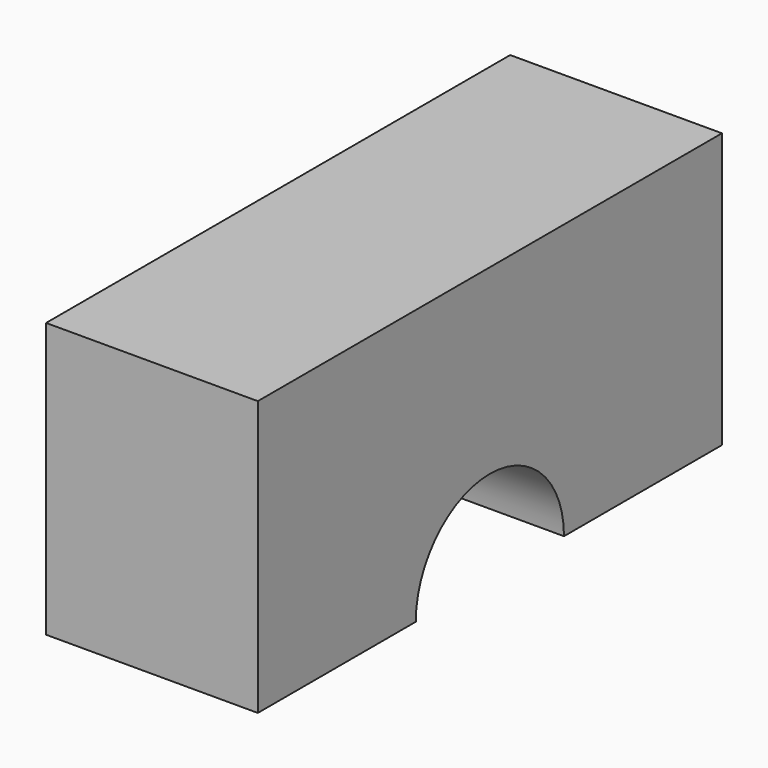
from build123d import *

# Parameters (mm, degrees)
F0_W     = 69.586493
F0_H     = 32.927692
F1_DEPTH = 25.4
F3_D     = 22.225


with BuildPart() as f1:
    # F0 (on Right) → F1 (new body)
    with BuildSketch(Plane.YZ):
        with Locations((34.793246, 16.463846)):
            Rectangle(F0_W, F0_H)
    extrude(amount=F1_DEPTH)

    # F3 (through all)
    with Locations(Plane(origin=(0, 0, 0), x_dir=(0, -1, 0), z_dir=(-1, 0, 0))):
        with Locations((-34.793247, 0)):
            Hole(F3_D / 2)


solid = f1.part
